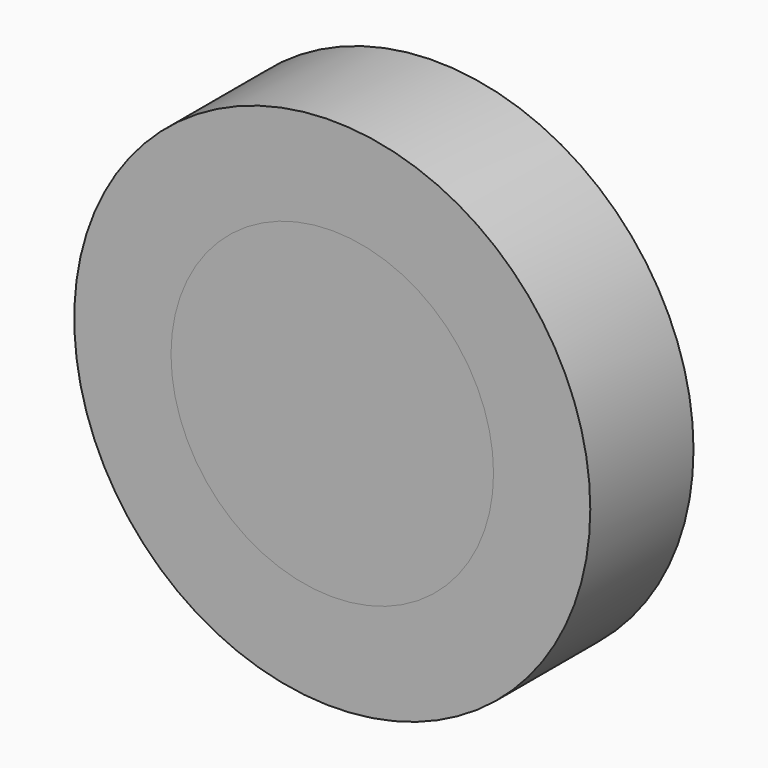
from build123d import *

# Parameters (mm, degrees)
F6_R     = 200
F6_R_2   = 125
F7_DEPTH = 50
F0_R     = 125
F5_R     = 200
F5_R_2   = 125
F2_R     = 125
F1_R     = 200
F1_R_2   = 125
F3_R     = 125
F4_R     = 125


with BuildPart() as f7:
    # F6 (on face) → F7 (new body, symmetric)
    with BuildSketch(Plane.XZ):
        Circle(F6_R)
        Circle(F6_R_2, mode=Mode.SUBTRACT)
        Circle(F6_R_2)
    extrude(amount=F7_DEPTH, both=True)


with BuildPart() as f7b:
    # F0 (on Front) → F7, piece 2 (new body, symmetric)
    with BuildSketch(Plane.XZ):
        Circle(F0_R)
    extrude(amount=F7_DEPTH, both=True)


with BuildPart() as f7c:
    # F5 (on face) → F7, piece 3 (new body, symmetric)
    with BuildSketch(Plane.XZ):
        Circle(F5_R)
        Circle(F5_R_2, mode=Mode.SUBTRACT)
        Circle(F5_R_2)
    extrude(amount=F7_DEPTH, both=True)


with BuildPart() as f7d:
    # F2 (on face) → F7, piece 4 (new body, symmetric)
    with BuildSketch(Plane.XZ):
        Circle(F2_R)
    extrude(amount=F7_DEPTH, both=True)


with BuildPart() as f7e:
    # F1 (on face) → F7, piece 5 (new body, symmetric)
    with BuildSketch(Plane.XZ):
        Circle(F1_R)
        Circle(F1_R_2, mode=Mode.SUBTRACT)
        Circle(F1_R_2)
    extrude(amount=F7_DEPTH, both=True)


with BuildPart() as f7f:
    # F3 (on face) → F7, piece 6 (new body, symmetric)
    with BuildSketch(Plane.XZ):
        Circle(F3_R)
    extrude(amount=F7_DEPTH, both=True)


with BuildPart() as f7g:
    # F4 (on face) → F7, piece 7 (new body, symmetric)
    with BuildSketch(Plane.XZ):
        Circle(F4_R)
    extrude(amount=F7_DEPTH, both=True)


solid = Compound([f7.part, f7b.part, f7c.part, f7d.part, f7e.part, f7f.part, f7g.part])
